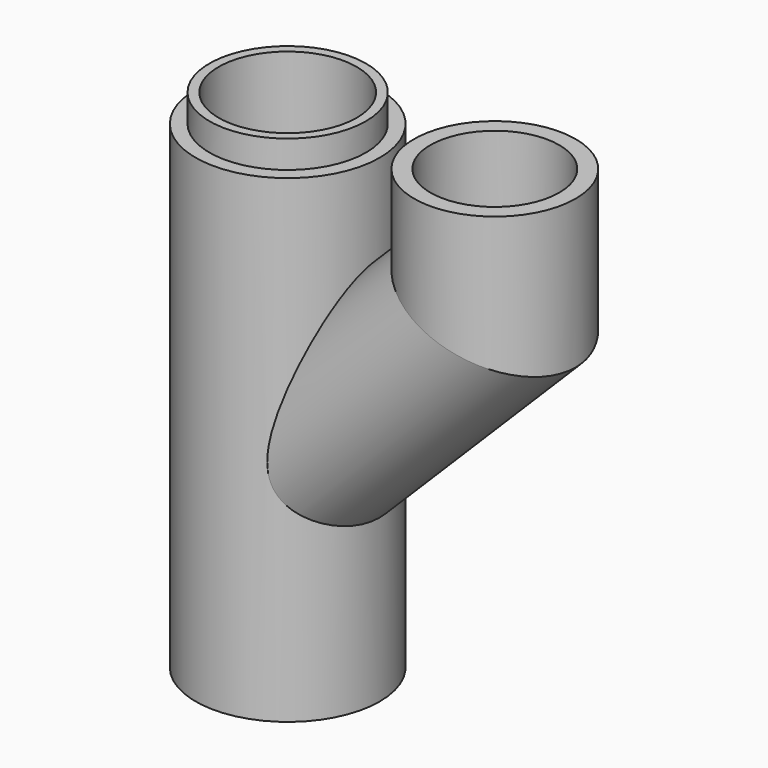
from build123d import *

# Parameters (mm, degrees)
F1_R     = 20
F1_R_2   = 17.55
F4_R     = 17.55
F5_DEPTH = 30
F6_R     = 15
F7_DEPTH = 110.0010001
F8_R     = 20
F8_R_2   = 17
F9_DEPTH = 6
F10_R    = 14


with BuildPart() as f2:
    # F2: sweep along a path in F0
    with BuildLine(Plane.XZ) as f2_path:
        Line((0, 0), (0, -70))
        Line((0, -70), (0, -110))
    # F1 (on Top) → F2 (sweep)
    with BuildSketch(Plane.XY):
        Circle(F1_R)
    sweep(path=f2_path.line)

    # F3: sweep along a path in F0
    with BuildLine(Plane.XZ) as f3_path:
        Line((45, 0), (45, -25))
        Line((45, -25), (0, -70))
    # F1 (on Top) → F3 (sweep)
    with BuildSketch(Plane.XY):
        with Locations((45, 0)):
            Circle(F1_R_2)
    sweep(path=f3_path.line, transition=Transition.RIGHT)

    # F4 (on face) → F5 (cut)
    with BuildSketch(Plane(origin=(0, 0, -110), x_dir=(1, 0, 0), z_dir=(0, 0, -1))):
        Circle(F4_R)
    extrude(amount=-F5_DEPTH, mode=Mode.SUBTRACT)

    # F6 (on face) → F7 (cut, through all)
    with BuildSketch(Plane.XY):
        Circle(F6_R)
    extrude(amount=-F7_DEPTH, mode=Mode.SUBTRACT)

    # F8 (on face) → F9 (cut)
    with BuildSketch(Plane.XY):
        Circle(F8_R)
        Circle(F8_R_2, mode=Mode.SUBTRACT)
    extrude(amount=-F9_DEPTH, mode=Mode.SUBTRACT)

    # F11: sweep along a path in F0
    with BuildLine(Plane.XZ) as f11_path:
        Line((45, 0), (45, -25))
        Line((45, -25), (0, -70))
    # F10 (on face) → F11 (sweep, cut)
    with BuildSketch(Plane.XY):
        with Locations((45, 0)):
            Circle(F10_R)
    sweep(path=f11_path.line, transition=Transition.RIGHT, mode=Mode.SUBTRACT)


solid = f2.part
